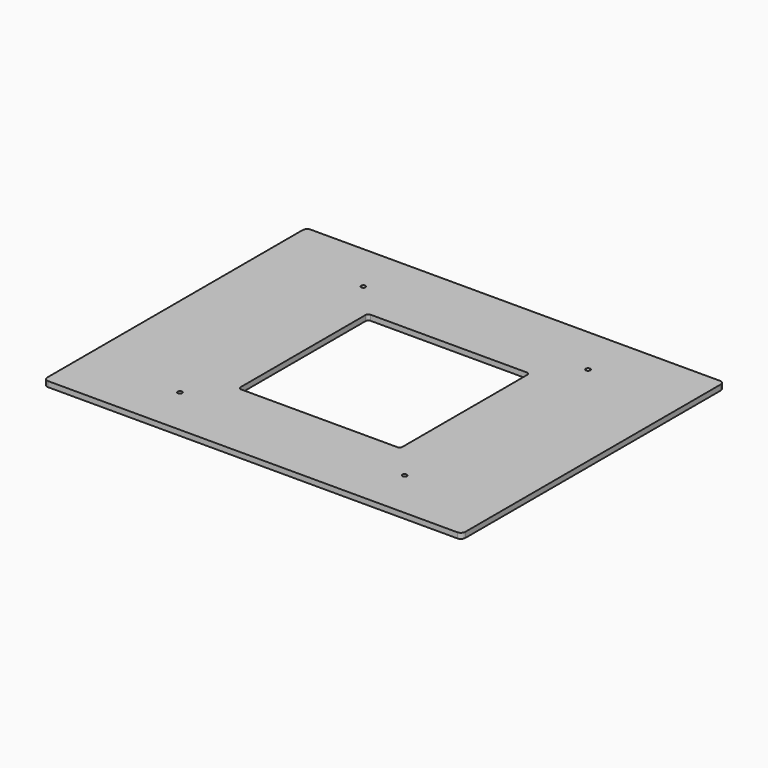
from build123d import *

# Parameters (mm, degrees)
F1_DEPTH = 6
F3_D     = 5


with BuildPart() as f1:
    # F0 (on Top) → F1 (new body)
    with BuildSketch(Plane.XY):
        with BuildLine():
            ThreePointArc((-232.5, -177.5), (-231.035534, -181.035534), (-227.5, -182.5))
            Line((-227.5, -182.5), (227.5, -182.5))
            ThreePointArc((227.5, -182.5), (231.035534, -181.035534), (232.5, -177.5))
            Line((232.5, -177.5), (232.5, 177.5))
            ThreePointArc((232.5, 177.5), (231.035534, 181.035534), (227.5, 182.5))
            Line((227.5, 182.5), (-227.5, 182.5))
            ThreePointArc((-227.5, 182.5), (-231.035534, 181.035534), (-232.5, 177.5))
            Line((-232.5, 177.5), (-232.5, -177.5))
        make_face()
        with BuildLine():
            Line((87, -90), (-87, -90))
            ThreePointArc((-87, -90), (-89.12132, -89.12132), (-90, -87))
            Line((-90, -87), (-90, 87))
            ThreePointArc((-90, 87), (-89.12132, 89.12132), (-87, 90))
            Line((-87, 90), (87, 90))
            ThreePointArc((87, 90), (89.12132, 89.12132), (90, 87))
            Line((90, 87), (90, -87))
            ThreePointArc((90, -87), (89.12132, -89.12132), (87, -90))
        make_face(mode=Mode.SUBTRACT)
    extrude(amount=F1_DEPTH)

    # F3 (through all)
    with Locations(Plane.XY.offset(6)):
        with Locations((125, -127.5), (-125, -127.5), (125, 127.5), (-125, 127.5)):
            Hole(F3_D / 2)


solid = f1.part
